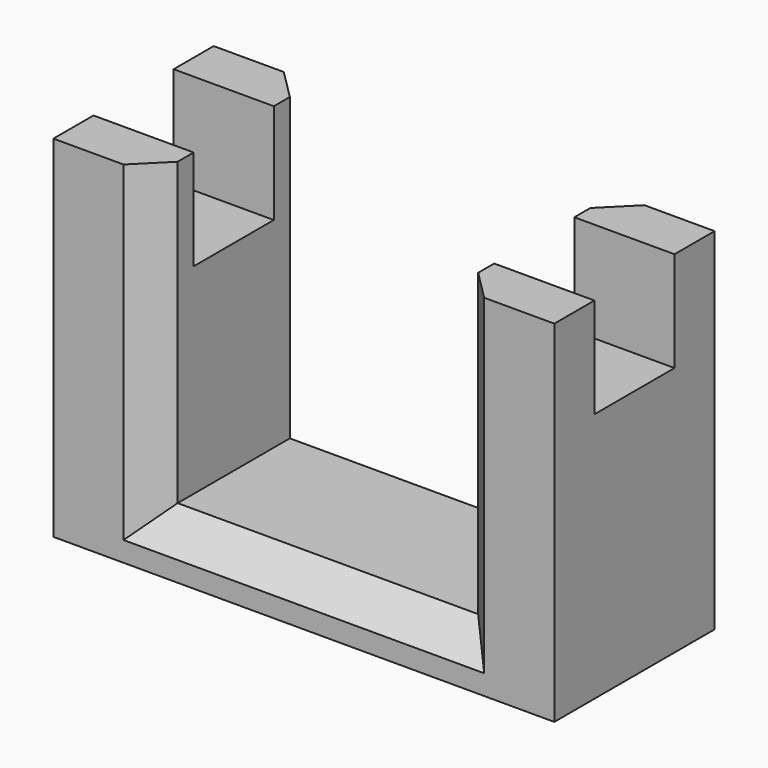
from build123d import *

# Parameters (mm, degrees)
F0_W     = 50
F0_H     = 20
F1_DEPTH = 5
F2_W     = 10
F2_H     = 20
F3_DEPTH = 20
F4_SIZE  = 3
F5_W     = 10
F5_H     = 2
F6_DEPTH = 10
F8_DEPTH = 10
F9_SIZE  = 3


with BuildPart() as f1:
    # F0 (on Top) → F1 (new body)
    with BuildSketch(Plane.XY):
        Rectangle(F0_W, F0_H)
    extrude(amount=F1_DEPTH)

    # F2 (on face) → F3 (join)
    with BuildSketch(Plane.XY.offset(5)):
        with Locations((-20, 0)):
            Rectangle(F2_W, F2_H)
        with Locations((20, 0)):
            Rectangle(F2_W, F2_H)
    extrude(amount=F3_DEPTH)

    # F4
    f4_edges = [f1.edges().sort_by_distance(p)[0] for p in [
        (-15, -10, 15),
        (-15, 10, 15),
        (15, 10, 15),
        (15, -10, 15),
    ]]
    chamfer(f4_edges, length=F4_SIZE)

    # F5 (on face) → F6 (join)
    with BuildSketch(Plane.XY.offset(25)):
        Polygon((-25, -10), (-18, -10), (-15, -7), (-25, -7), align=None)
        with Locations((-20, -6)):
            Rectangle(F5_W, F5_H)
        with Locations((-20, 6)):
            Rectangle(F5_W, F5_H)
        Polygon((-25, 7), (-15, 7), (-18, 10), (-25, 10), align=None)
    extrude(amount=F6_DEPTH)

    # F7 (on face) → F8 (join)
    with BuildSketch(Plane.XY.offset(25)):
        Polygon((25, 10), (18, 10), (15, 7), (15, 5), (25, 5), align=None)
        Polygon((25, -5), (15, -5), (15, -7), (18, -10), (25, -10), align=None)
    extrude(amount=F8_DEPTH)

    # F9
    f9_edges = [f1.edges().sort_by_distance(p)[0] for p in [
        (0, -10, 5),
        (0, 10, 5),
    ]]
    chamfer(f9_edges, length=F9_SIZE)


solid = f1.part
